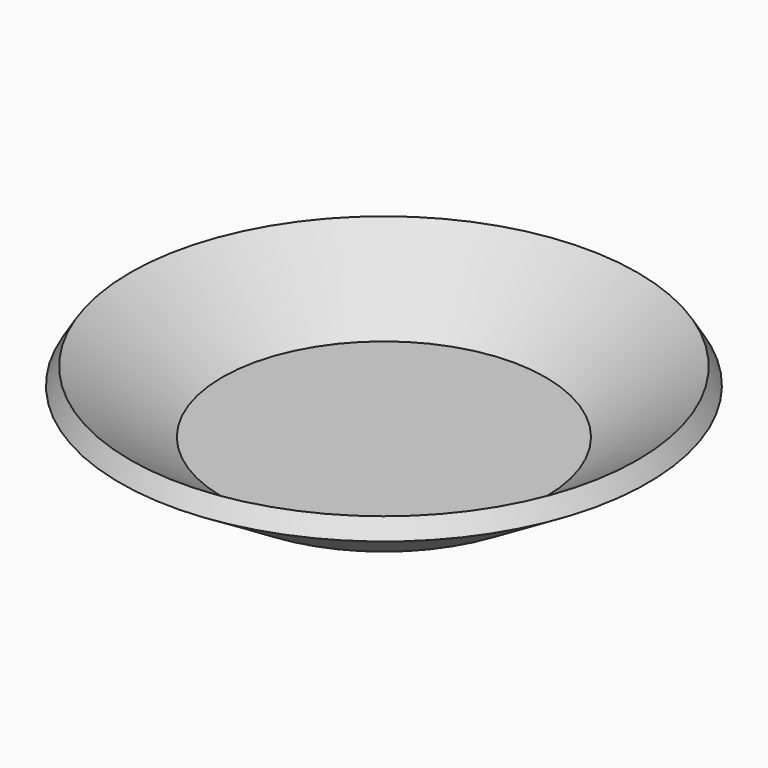
from build123d import *

# Parameters (mm, degrees)
F0_W = 199.4463205338
F0_H = 20.7075253129


with BuildPart() as f1:
    # F0 (on Front) → F1 (revolve)
    with BuildSketch(Plane.XZ):
        with Locations((-99.7231602669, -66.3151629269)):
            Rectangle(F0_W, F0_H)
        Polygon((-199.4463205338, -76.6689255834), (-199.4463205338, -55.9614002705), (-312.79543971, 20.8271426426), (-325.4663944244, 0), align=None)
    revolve(axis=Axis((0, 0, -66.3151629269), (0, 0, -1)))


solid = f1.part
